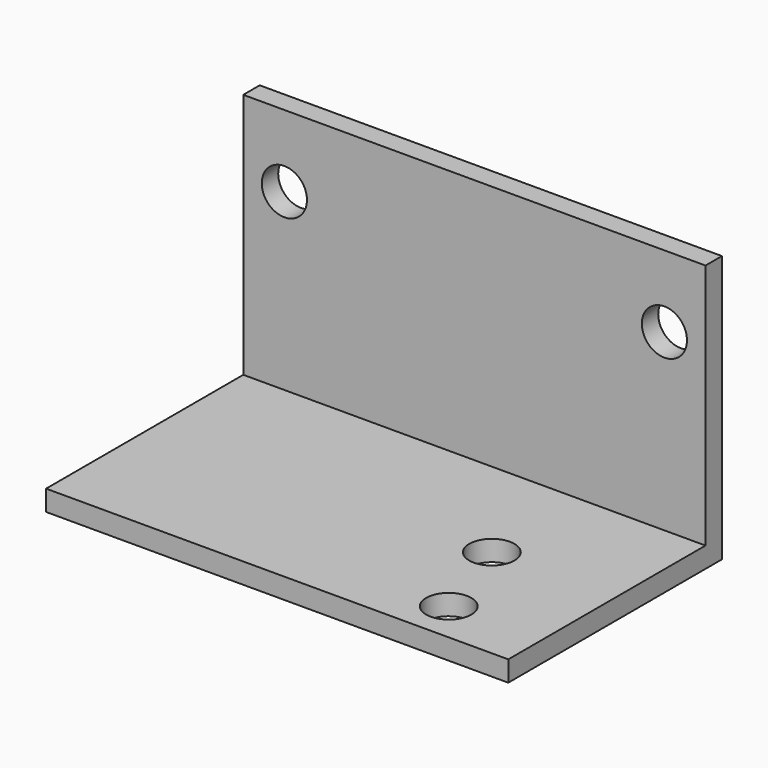
from build123d import *

# Parameters (mm, degrees)
F0_W     = 45
F0_H     = 26
F1_DEPTH = 26
F2_W     = 24
F2_H     = 24
F3_DEPTH = 45.001
F5_D     = 4.4
F7_D     = 4.4


with BuildPart() as f1:
    # F0 (on Top) → F1 (new body)
    with BuildSketch(Plane.XY):
        with Locations((-10.5, 0)):
            Rectangle(F0_W, F0_H)
    extrude(amount=F1_DEPTH)

    # F2 (on face) → F3 (cut, through all)
    with BuildSketch(Plane.YZ.offset(12)):
        with Locations((-1, 14)):
            Rectangle(F2_W, F2_H)
    extrude(amount=-F3_DEPTH, mode=Mode.SUBTRACT)

    # F5 (through all)
    with Locations(Plane.XY.offset(2)):
        with Locations((0, 0), (3, -9)):
            Hole(F5_D / 2)

    # F7 (through all)
    with Locations(Plane.XZ.offset(-11)):
        with Locations((-29, 19), (8, 19)):
            Hole(F7_D / 2)


solid = f1.part
